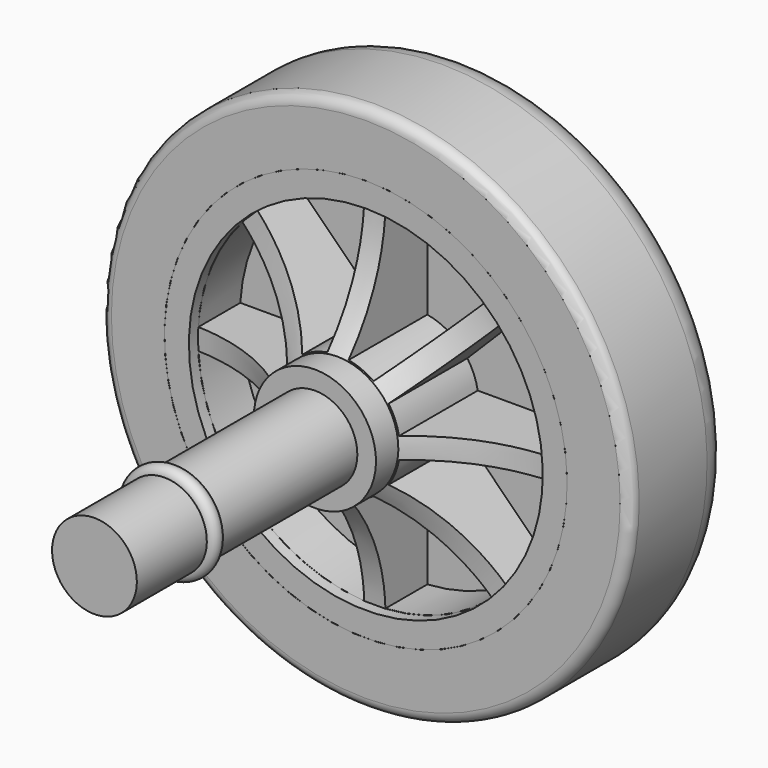
from build123d import *

# Parameters (mm, degrees)
F1_R     = 19
F2_DEPTH = 6
F0_R     = 19
F5_DEPTH = 6
F0_R_2   = 4
F6_DEPTH = 12
F7_DEPTH = 1
F8_DEPTH = 12
F15_R    = 1
F16_R    = 3


with BuildPart() as f2:
    # F1 (on Front) → F2 (new body)
    with BuildSketch(Plane.XZ):
        Circle(F1_R)
    extrude(amount=-F2_DEPTH)

    # F3 (on Top) → F4 (revolve)
    with BuildSketch(Plane.XY):
        with BuildLine():
            Line((0, 6), (19, 6))
            ThreePointArc((19, 6), (9.546701, 7.413543), (0, 7.886265))
            Line((0, 7.886265), (0, 6))
        make_face()
    revolve(axis=Axis((0, 6.486826, 0), (0, 1, 0)))

    # F0 (on Front) → F5 (join)
    with BuildSketch(Plane.XZ):
        Circle(F0_R)
        with BuildLine():
            ThreePointArc((16.644988, 1), (16.667495, 0.500225), (16.675, 0))
            ThreePointArc((16.675, 0), (16.667495, -0.500225), (16.644988, -1))
            ThreePointArc((16.644988, -1), (15.405691, -6.381246), (12.476891, -11.062677))
            ThreePointArc((12.476891, -11.062677), (11.791006, -11.791006), (11.062677, -12.476891))
            ThreePointArc((11.062677, -12.476891), (6.381246, -15.405691), (1, -16.644988))
            ThreePointArc((1, -16.644988), (0, -16.675), (-1, -16.644988))
            ThreePointArc((-1, -16.644988), (-6.381246, -15.405691), (-11.062677, -12.476891))
            ThreePointArc((-11.062677, -12.476891), (-11.791006, -11.791006), (-12.476891, -11.062677))
            ThreePointArc((-12.476891, -11.062677), (-15.405691, -6.381246), (-16.644988, -1))
            ThreePointArc((-16.644988, -1), (-16.675, 0), (-16.644988, 1))
            ThreePointArc((-16.644988, 1), (-15.405691, 6.381246), (-12.476891, 11.062677))
            ThreePointArc((-12.476891, 11.062677), (-11.791006, 11.791006), (-11.062677, 12.476891))
            ThreePointArc((-11.062677, 12.476891), (-6.381246, 15.405691), (-1, 16.644988))
            ThreePointArc((-1, 16.644988), (0, 16.675), (1, 16.644988))
            ThreePointArc((1, 16.644988), (6.381246, 15.405691), (11.062677, 12.476891))
            ThreePointArc((11.062677, 12.476891), (11.791006, 11.791006), (12.476891, 11.062677))
            ThreePointArc((12.476891, 11.062677), (15.405691, 6.381246), (16.644988, 1))
        make_face(mode=Mode.SUBTRACT)
    extrude(amount=F5_DEPTH)

    # F0 (on Front) → F6 (join)
    with BuildSketch(Plane.XZ):
        with BuildLine():
            ThreePointArc((5.845, 0), (5.823416, 0.501853), (5.758821, 1))
            ThreePointArc((5.758821, 1), (5.400076, 2.236785), (4.779209, 3.364995))
            ThreePointArc((4.779209, 3.364995), (4.133039, 4.133039), (3.364995, 4.779209))
            ThreePointArc((3.364995, 4.779209), (2.236785, 5.400076), (1, 5.758821))
            ThreePointArc((1, 5.758821), (0, 5.845), (-1, 5.758821))
            ThreePointArc((-1, 5.758821), (-2.236785, 5.400076), (-3.364995, 4.779209))
            ThreePointArc((-3.364995, 4.779209), (-4.133039, 4.133039), (-4.779209, 3.364995))
            ThreePointArc((-4.779209, 3.364995), (-5.400076, 2.236785), (-5.758821, 1))
            ThreePointArc((-5.758821, 1), (-5.845, 0), (-5.758821, -1))
            ThreePointArc((-5.758821, -1), (-5.400076, -2.236785), (-4.779209, -3.364995))
            ThreePointArc((-4.779209, -3.364995), (-4.133039, -4.133039), (-3.364995, -4.779209))
            ThreePointArc((-3.364995, -4.779209), (-2.236785, -5.400076), (-1, -5.758821))
            ThreePointArc((-1, -5.758821), (0, -5.845), (1, -5.758821))
            ThreePointArc((1, -5.758821), (2.236785, -5.400076), (3.364995, -4.779209))
            ThreePointArc((3.364995, -4.779209), (4.133039, -4.133039), (4.779209, -3.364995))
            ThreePointArc((4.779209, -3.364995), (5.400076, -2.236785), (5.758821, -1))
            ThreePointArc((5.758821, -1), (5.823416, -0.501853), (5.845, 0))
        make_face()
        Circle(F0_R_2, mode=Mode.SUBTRACT)
    extrude(amount=F6_DEPTH)

    # F0 (on Front) → F7 (cut)
    with BuildSketch(Plane.XZ):
        Circle(F0_R_2)
    extrude(amount=-F7_DEPTH, mode=Mode.SUBTRACT)

    # F0 (on Front) → F8 (join, through all)
    with BuildSketch(Plane.XZ):
        with BuildLine():
            Line((-3.364995, 4.779209), (-11.062677, 12.476891))
            ThreePointArc((-11.062677, 12.476891), (-11.791006, 11.791006), (-12.476891, 11.062677))
            Line((-12.476891, 11.062677), (-4.779209, 3.364995))
            ThreePointArc((-4.779209, 3.364995), (-4.133039, 4.133039), (-3.364995, 4.779209))
        make_face()
        with BuildLine():
            Line((1, 5.758821), (1, 16.644988))
            ThreePointArc((1, 16.644988), (0, 16.675), (-1, 16.644988))
            Line((-1, 16.644988), (-1, 5.758821))
            ThreePointArc((-1, 5.758821), (0, 5.845), (1, 5.758821))
        make_face()
        with BuildLine():
            Line((4.779209, 3.364995), (12.476891, 11.062677))
            ThreePointArc((12.476891, 11.062677), (11.791006, 11.791006), (11.062677, 12.476891))
            Line((11.062677, 12.476891), (3.364995, 4.779209))
            ThreePointArc((3.364995, 4.779209), (4.133039, 4.133039), (4.779209, 3.364995))
        make_face()
        with BuildLine():
            ThreePointArc((16.644988, -1), (16.667495, -0.500225), (16.675, 0))
            ThreePointArc((16.675, 0), (16.667495, 0.500225), (16.644988, 1))
            Line((16.644988, 1), (5.758821, 1))
            ThreePointArc((5.758821, 1), (5.823416, 0.501853), (5.845, 0))
            ThreePointArc((5.845, 0), (5.823416, -0.501853), (5.758821, -1))
            Line((5.758821, -1), (16.644988, -1))
        make_face()
        with BuildLine():
            ThreePointArc((11.062677, -12.476891), (11.791006, -11.791006), (12.476891, -11.062677))
            Line((12.476891, -11.062677), (4.779209, -3.364995))
            ThreePointArc((4.779209, -3.364995), (4.133039, -4.133039), (3.364995, -4.779209))
            Line((3.364995, -4.779209), (11.062677, -12.476891))
        make_face()
        with BuildLine():
            ThreePointArc((-1, -16.644988), (0, -16.675), (1, -16.644988))
            Line((1, -16.644988), (1, -5.758821))
            ThreePointArc((1, -5.758821), (0, -5.845), (-1, -5.758821))
            Line((-1, -5.758821), (-1, -16.644988))
        make_face()
        with BuildLine():
            ThreePointArc((-12.476891, -11.062677), (-11.791006, -11.791006), (-11.062677, -12.476891))
            Line((-11.062677, -12.476891), (-3.364995, -4.779209))
            ThreePointArc((-3.364995, -4.779209), (-4.133039, -4.133039), (-4.779209, -3.364995))
            Line((-4.779209, -3.364995), (-12.476891, -11.062677))
        make_face()
        with BuildLine():
            Line((-5.758821, 1), (-16.644988, 1))
            ThreePointArc((-16.644988, 1), (-16.675, 0), (-16.644988, -1))
            Line((-16.644988, -1), (-5.758821, -1))
            ThreePointArc((-5.758821, -1), (-5.845, 0), (-5.758821, 1))
        make_face()
    extrude(amount=F8_DEPTH)

    # F9 (on Right) → F10 (revolve, cut)
    with BuildSketch(Plane.YZ):
        with BuildLine():
            Line((-12, 5.758821), (-9.361527, 5.758821))
            ThreePointArc((-9.361527, 5.758821), (-6.191958, 10.839506), (-4.937822, 16.694988))
            Line((-4.937822, 16.694988), (-12.943807, 16.694988))
            Line((-12.943807, 16.694988), (-12.943807, 5.758821))
            Line((-12.943807, 5.758821), (-12, 5.758821))
        make_face()
    revolve(axis=Axis((0, 6.486826, 0), (0, 1, 0)), mode=Mode.SUBTRACT)

    # F11 (on Right) → F12 (revolve, cut)
    with BuildSketch(Plane.YZ):
        with BuildLine():
            Line((1.601163, 19), (-1.601163, 19))
            ThreePointArc((-1.601163, 19), (0, 17.398837), (1.601163, 19))
        make_face()
    revolve(axis=Axis((0, 6.486826, 0), (0, 1, 0)), mode=Mode.SUBTRACT)

    # F17 (on Right) → F18 (revolve, cut)
    with BuildSketch(Plane.YZ):
        with BuildLine():
            ThreePointArc((-7.25, 3.958821), (-8, 4.708821), (-8.75, 3.958821))
            Line((-8.75, 3.958821), (-7.25, 3.958821))
        make_face()
    revolve(axis=Axis((0, 6.486826, 0), (0, 1, 0)), mode=Mode.SUBTRACT)


with BuildPart() as f14:
    # F13 (on Right) → F14 (revolve)
    with BuildSketch(Plane.YZ):
        with BuildLine():
            Line((-6, 19), (-1.601163, 19))
            ThreePointArc((-1.601163, 19), (0, 17.398837), (1.601163, 19))
            Line((1.601163, 19), (6, 19))
            Line((6, 19), (6, 25))
            Line((6, 25), (-6.005827, 25))
            Line((-6.005827, 25), (-6.005827, 19))
            Line((-6.005827, 19), (-6, 19))
        make_face()
    revolve(axis=Axis((0, 6.486826, 0), (0, 1, 0)))

    # F15
    f15_edges = [f14.edges().sort_by_distance(p)[0] for p in [
        (0, -6.005827, -25),
    ]]
    fillet(f15_edges, radius=F15_R)

    # F16
    f16_edges = [f14.edges().sort_by_distance(p)[0] for p in [
        (0, 6, -25),
    ]]
    fillet(f16_edges, radius=F16_R)


with BuildPart() as f20:
    # F19 (on Right) → F20 (revolve)
    with BuildSketch(Plane.YZ):
        with BuildLine():
            Line((1, 4), (-7.251131, 4))
            ThreePointArc((-7.251131, 4), (-8, 4.708821), (-8.748869, 4))
            Line((-8.748869, 4), (-12, 4))
            Line((-12, 4), (-18.5, 4))
            Line((-18.5, 4), (-25, 4))
            Line((-25, 4), (-28.251131, 4))
            ThreePointArc((-28.251131, 4), (-29, 4.708821), (-29.748869, 4))
            Line((-29.748869, 4), (-38, 4))
            Line((-38, 4), (-38, 0))
            Line((-38, 0), (-25, 0))
            Line((-25, 0), (-18.5, 0))
            Line((-18.5, 0), (-12, 0))
            Line((-12, 0), (1, 0))
            Line((1, 0), (1, 4))
        make_face()
    revolve(axis=Axis((0, 6.486826, 0), (0, 1, 0)))


solid = Compound([f2.part, f14.part, f20.part])
